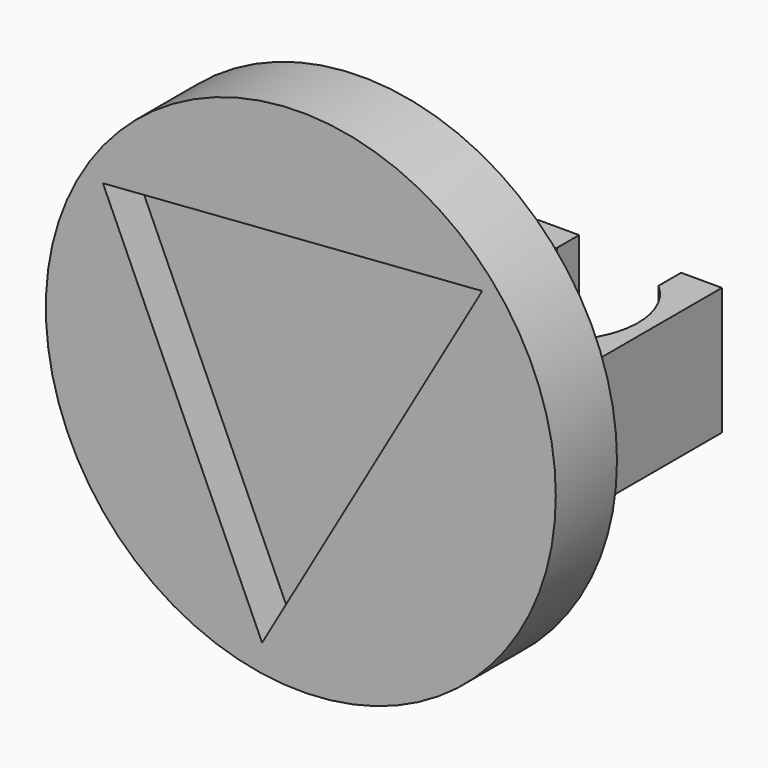
from build123d import *

# Parameters (mm, degrees)
F0_R     = 63.5
F1_DEPTH = 19.05
F2_DEPTH = 9.398
F4_DEPTH = 15.875


with BuildPart() as f1:
    # F0 (on Front) → F1 (new body)
    with BuildSketch(Plane.XZ):
        Circle(F0_R)
        Polygon((-49.285696, 31.858407), (45.167994, 38.940311), (-9.641714, -55.992887), align=None, mode=Mode.SUBTRACT)
    extrude(amount=F1_DEPTH)

    # F0 (on Front) → F2 (join)
    with BuildSketch(Plane.XZ):
        Polygon((-9.641714, -55.992887), (45.167994, 38.940311), (-49.285696, 31.858407), align=None)
    extrude(amount=F2_DEPTH)

    # F3 (on Top) → F4 (join, symmetric)
    with BuildSketch(Plane.XY):
        with BuildLine():
            Line((7.331135, 0), (53.051135, 0))
            Line((53.051135, 0), (53.051135, 45.72))
            Line((53.051135, 45.72), (42.891135, 45.72))
            Line((42.891135, 45.72), (42.891135, 38.676579))
            ThreePointArc((42.891135, 38.676579), (29.968754, 4.623022), (17.491135, 38.842048))
            Line((17.491135, 38.842048), (17.491135, 45.72))
            Line((17.491135, 45.72), (7.331135, 45.72))
            Line((7.331135, 45.72), (7.331135, 0))
        make_face()
    extrude(amount=F4_DEPTH, both=True)


solid = f1.part
